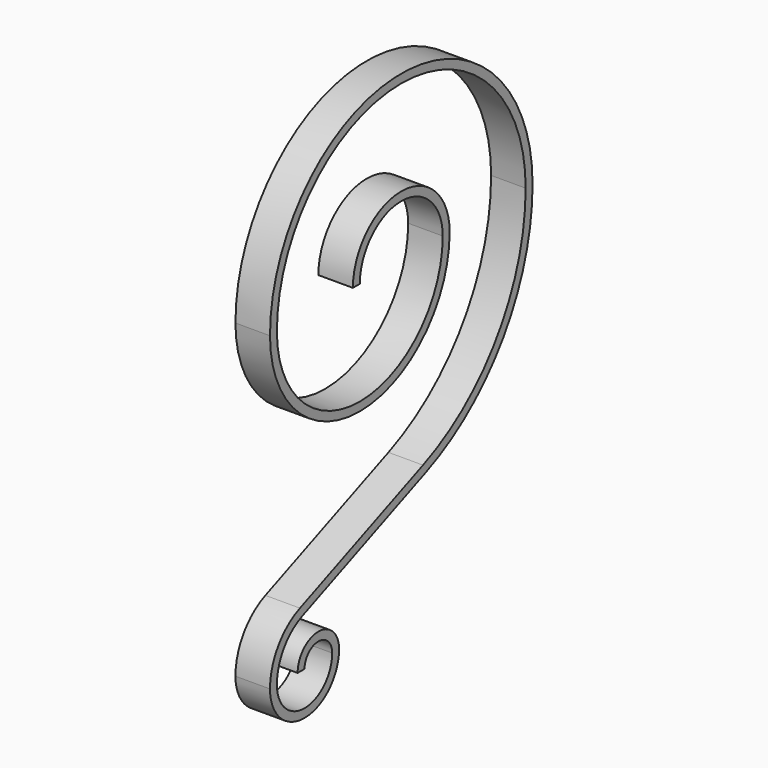
from build123d import *

# Parameters (mm, degrees)
F1_DEPTH = 25.4


with BuildPart() as f1:
    # F0 (on Right) → F1 (new body)
    with BuildSketch(Plane.YZ):
        with BuildLine():
            ThreePointArc((0, 0), (12.7, 12.7), (25.4, 0))
            ThreePointArc((25.4, 0), (0, -25.4), (-25.4, 0))
            ThreePointArc((-25.4, 0), (-18.958987, 21.197135), (-1.813726, 35.227287))
            Line((-1.813726, 35.227287), (111.273858, 81.81964))
            ThreePointArc((111.273858, 81.81964), (182.712446, 140.278607), (209.55, 228.6))
            ThreePointArc((209.55, 228.6), (88.899999, 349.250003), (-31.75, 228.599999))
            ThreePointArc((-31.75, 228.599999), (50.800002, 146.050003), (133.35, 228.600003))
            ThreePointArc((133.35, 228.600003), (88.9, 273.050003), (44.45, 228.600003))
            Line((44.45, 228.600003), (50.8, 228.600003))
            ThreePointArc((50.8, 228.600003), (88.9, 266.700003), (127, 228.600003))
            ThreePointArc((127, 228.600003), (50.8, 152.400003), (-25.4, 228.600003))
            ThreePointArc((-25.4, 228.600003), (88.9, 342.900003), (203.2, 228.600003))
            ThreePointArc((203.2, 228.600003), (177.435949, 143.811464), (108.854904, 87.690855))
            Line((108.854904, 87.690855), (-4.23268, 41.098502))
            ThreePointArc((-4.23268, 41.098502), (-24.235486, 24.72999), (-31.75, -1e-06))
            ThreePointArc((-31.75, -1e-06), (0, -31.75), (31.75, -2e-06))
            ThreePointArc((31.75, -2e-06), (12.700001, 19.05), (-6.35, 0))
            Line((-6.35, 0), (0, 0))
        make_face()
    extrude(amount=F1_DEPTH)


solid = f1.part
